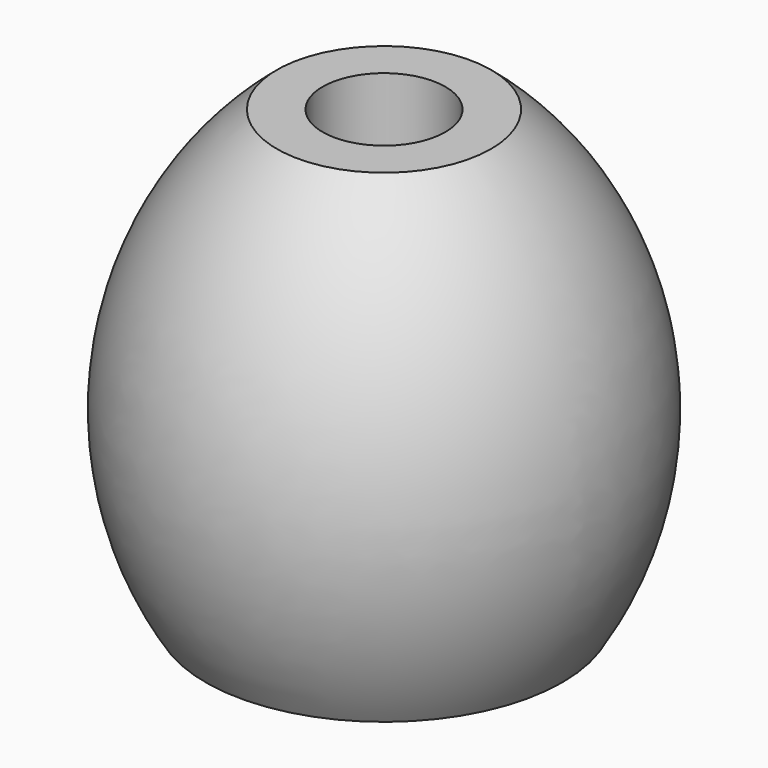
from build123d import *

# Parameters (mm, degrees)
F2_R      = 4.365625
F3_DEPTH  = 25.4
F3_FACE_R = 4.365625
F4_DEPTH  = 25.4


with BuildPart() as f1:
    # F0 (on Front) → F1 (revolve)
    with BuildSketch(Plane.XZ):
        with BuildLine():
            Line((0, 31.75), (0, 0))
            Line((0, 0), (12.7, 0))
            ThreePointArc((12.7, 0), (16.14612, 16.832779), (7.62, 31.75))
            Line((7.62, 31.75), (0, 31.75))
        make_face()
    revolve(axis=Axis((0, 0, 15.875), (0, 0, 1)))

    # F2 (on face) → F3 (cut)
    with BuildSketch(Plane.XY.offset(31.75)):
        Circle(F2_R)
    extrude(amount=-F3_DEPTH, mode=Mode.SUBTRACT)

    # F3_face (on face) → F4 (cut)
    with BuildSketch(Plane.XY.offset(6.35)):
        Circle(F3_FACE_R)
    extrude(amount=-F4_DEPTH, mode=Mode.SUBTRACT)


solid = f1.part
